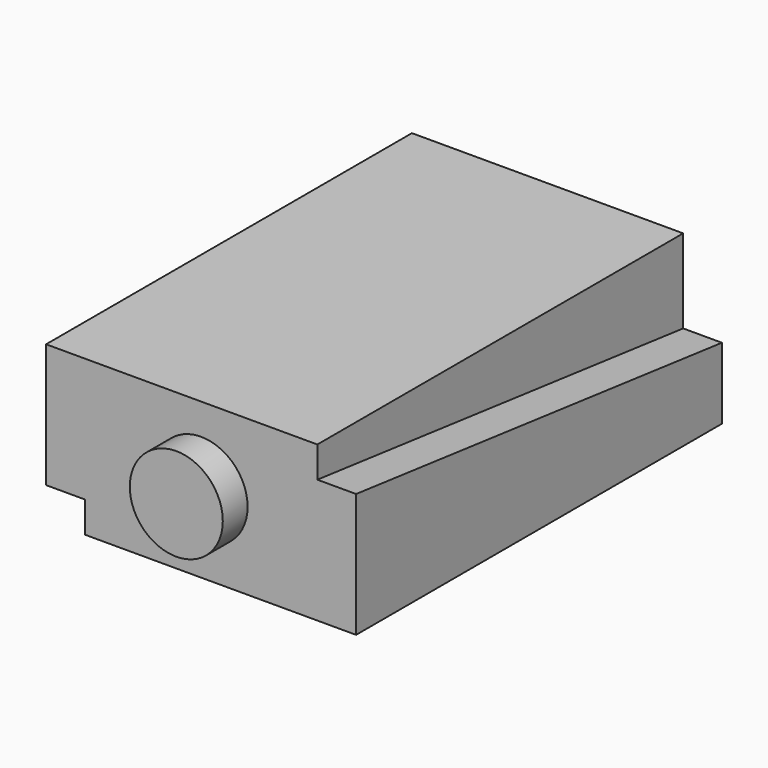
from build123d import *

# Parameters (mm, degrees)
F0_W     = 40
F0_H     = 59
F1_DEPTH = 10
F3_DEPTH = 8
F4_R     = 6
F5_DEPTH = 4
F7_DEPTH = 5
F9_DEPTH = 5


with BuildPart() as f1:
    # F0 (on Top) → F1 (new body, symmetric)
    with BuildSketch(Plane.XY):
        with Locations((0, -29.5)):
            Rectangle(F0_W, F0_H)
    extrude(amount=F1_DEPTH, both=True)

    # F2 (on face) → F3 (cut)
    with BuildSketch(Plane(origin=(0, 0, 0), x_dir=(-1, 0, 0), z_dir=(0, 1, 0))):
        with BuildLine():
            Line((-0.9, -0.8), (0.9, -0.8))
            ThreePointArc((0.9, -0.8), (1.7, 0), (0.9, 0.8))
            Line((0.9, 0.8), (-0.9, 0.8))
            ThreePointArc((-0.9, 0.8), (-1.7, 0), (-0.9, -0.8))
        make_face()
    extrude(amount=-F3_DEPTH, mode=Mode.SUBTRACT)

    # F4 (on face) → F5 (join)
    with BuildSketch(Plane.XZ.offset(59)):
        Circle(F4_R)
    extrude(amount=F5_DEPTH)

    # F6 (on face) → F7 (cut)
    with BuildSketch(Plane(origin=(-20, 0, 0), x_dir=(0, -1, 0), z_dir=(-1, 0, 0))):
        Polygon((59, -6), (0, 0.8), (0, -10), (59, -10), align=None)
    extrude(amount=-F7_DEPTH, mode=Mode.SUBTRACT)

    # F8 (on face) → F9 (cut)
    with BuildSketch(Plane.YZ.offset(20)):
        Polygon((-59, 6), (0, -0.8), (0, 10), (-59, 10), align=None)
    extrude(amount=-F9_DEPTH, mode=Mode.SUBTRACT)


solid = f1.part
